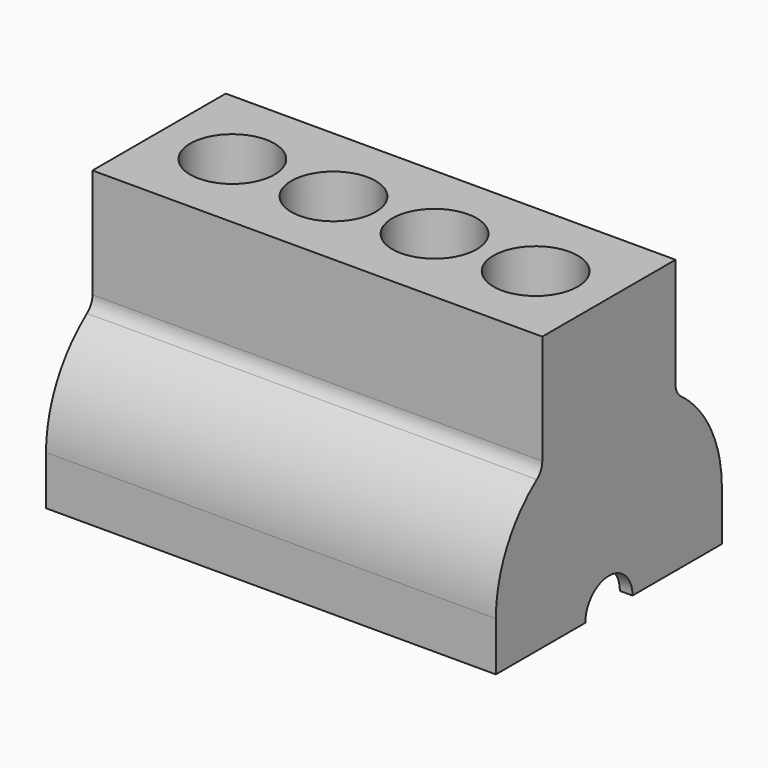
from build123d import *

# Parameters (mm, degrees)
F0_W     = 53.390044
F0_H     = 19.768442
F0_R     = 5
F1_DEPTH = 15
F3_W     = 53.390044
F3_H     = 33.533428
F4_DEPTH = 17.5
F5_R     = 2
F6_R     = 15
F2_R     = 5
F7_DEPTH = 44.269914


with BuildPart() as f1:
    # F0 (on Top) → F1 (new body)
    with BuildSketch(Plane.XY):
        Rectangle(F0_W, F0_H)
        with Locations((-18, 0)):
            Circle(F0_R, mode=Mode.SUBTRACT)
        with Locations((-6, 0)):
            Circle(F0_R, mode=Mode.SUBTRACT)
        with Locations((6, 0)):
            Circle(F0_R, mode=Mode.SUBTRACT)
        with Locations((18, 0)):
            Circle(F0_R, mode=Mode.SUBTRACT)
    extrude(amount=F1_DEPTH)

    # F3 (on face) → F4 (join)
    with BuildSketch(Plane(origin=(0, 0, 0), x_dir=(1, 0, 0), z_dir=(0, 0, -1))):
        Rectangle(F3_W, F3_H)
    extrude(amount=F4_DEPTH)

    # F5
    f5_edges = [f1.edges().sort_by_distance(p)[0] for p in [
        (0, 9.884221, 0),
        (0, -9.884221, 0),
    ]]
    fillet(f5_edges, radius=F5_R)

    # F6
    f6_edges = [f1.edges().sort_by_distance(p)[0] for p in [
        (0, -16.766714, 0),
        (0, 16.766714, 0),
    ]]
    fillet(f6_edges, radius=F6_R)

    # F2 (on face) → F7 (cut)
    with BuildSketch(Plane.XY.offset(15)):
        with Locations((-18, 0)):
            Circle(F2_R)
        with Locations((-6, 0)):
            Circle(F2_R)
        with Locations((6, 0)):
            Circle(F2_R)
        with Locations((18, 0)):
            Circle(F2_R)
    extrude(amount=-F7_DEPTH, mode=Mode.SUBTRACT)

    # F8 (on face) → F9 (revolve, cut)
    with BuildSketch(Plane(origin=(0, 0, -17.5), x_dir=(1, 0, 0), z_dir=(0, 0, -1))):
        with BuildLine():
            Line((26.695022, 0), (23, 0))
            ThreePointArc((23, 0), (18, -5), (13, 0))
            Line((13, 0), (11, 0))
            ThreePointArc((11, 0), (6, -5), (1, 0))
            Line((1, 0), (-1, 0))
            ThreePointArc((-1, 0), (-6, -5), (-11, 0))
            Line((-11, 0), (-13, 0))
            ThreePointArc((-13, 0), (-18, -5), (-23, 0))
            Line((-23, 0), (-26.695022, 0))
            Line((-26.695022, 0), (-26.695022, -3.5))
            Line((-26.695022, -3.5), (-25.195022, -3.5))
            Line((-25.195022, -3.5), (-25.195022, -14.766714))
            Line((-25.195022, -14.766714), (25.195022, -14.766714))
            Line((25.195022, -14.766714), (25.195022, -3.5))
            Line((25.195022, -3.5), (26.695022, -3.5))
            Line((26.695022, -3.5), (26.695022, 0))
        make_face()
    revolve(axis=Axis((0, 0, -17.5), (1, 0, 0)), mode=Mode.SUBTRACT)


solid = f1.part
